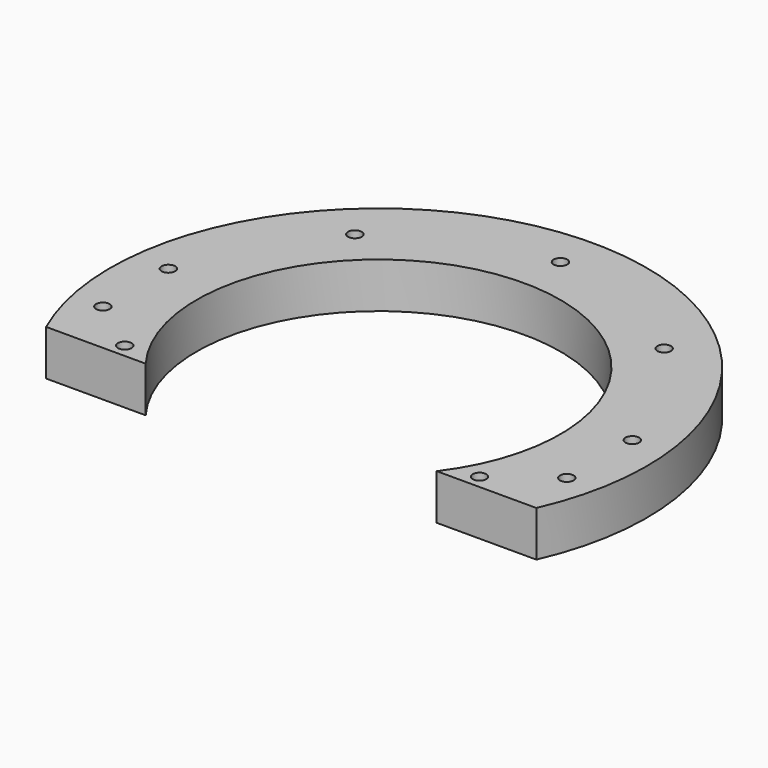
from build123d import *

# Parameters (mm, degrees)
CYLINDER531_R     = 1.5
CYLINDER531_DEPTH = 100
CYLINDER530_R     = 1.5
CYLINDER530_DEPTH = 100
CYLINDER364_R     = 1.5
CYLINDER364_DEPTH = 50
CYLINDER363_R     = 3
CYLINDER363_DEPTH = 4
BOX135_W          = 200
BOX135_H          = 100
BOX135_DEPTH      = 32
CYLINDER328_R     = 1.5
CYLINDER328_DEPTH = 50
CYLINDER330_R     = 1.5
CYLINDER330_DEPTH = 50
CYLINDER331_R     = 1.5
CYLINDER331_DEPTH = 50
CYLINDER329_R     = 1.5
CYLINDER329_DEPTH = 50
CYLINDER334_R     = 3
CYLINDER334_DEPTH = 4
CYLINDER327_R     = 3
CYLINDER327_DEPTH = 4
CYLINDER292_R     = 1.5
CYLINDER292_DEPTH = 100
CYLINDER291_R     = 1.5
CYLINDER291_DEPTH = 100
CYLINDER316_R     = 3
CYLINDER316_DEPTH = 4
CYLINDER315_R     = 3
CYLINDER315_DEPTH = 4
CYLINDER313_R     = 1.5
CYLINDER313_DEPTH = 50
CYLINDER314_R     = 1.5
CYLINDER314_DEPTH = 50
CYLINDER311_R     = 3
CYLINDER311_DEPTH = 4
CYLINDER312_R     = 3
CYLINDER312_DEPTH = 4
TUBE_R            = 59
TUBE_R_2          = 40
TUBE_DEPTH        = 10


with BuildPart() as obj1:
    # Cylinder531 → Cylinder531 (new body)
    with BuildSketch(Plane(origin=(39, -21, 0), x_dir=(1, 0, 0), z_dir=(0, 0, 1))):
        Circle(CYLINDER531_R)
    extrude(amount=CYLINDER531_DEPTH)


with BuildPart() as compound308:
    # Cylinder530 → Cylinder530 (new body)
    with BuildSketch(Plane(origin=(-39, -21, 0), x_dir=(1, 0, 0), z_dir=(0, 0, 1))):
        Circle(CYLINDER530_R)
    extrude(amount=CYLINDER530_DEPTH)

    # Compound308: union obj1
    add(obj1.part)


with BuildPart() as obj2:
    # Cylinder364 → Cylinder364 (new body)
    with BuildSketch(Plane(origin=(0, 50, 0), x_dir=(1, 0, 0), z_dir=(0, 0, 1))):
        Circle(CYLINDER364_R)
    extrude(amount=CYLINDER364_DEPTH)


with BuildPart() as obj3:
    # Cylinder363 → Cylinder363 (new body)
    with BuildSketch(Plane(origin=(0, 50, -1), x_dir=(1, 0, 0), z_dir=(0, 0, 1))):
        Circle(CYLINDER363_R)
    extrude(amount=CYLINDER363_DEPTH)


with BuildPart() as krychle135:
    # Box135 → Box135 (new body)
    with BuildSketch(Plane(origin=(-100, -124, 0), x_dir=(1, 0, 0), z_dir=(0, 0, 1))):
        with Locations((100, 50)):
            Rectangle(BOX135_W, BOX135_H)
    extrude(amount=BOX135_DEPTH)


with BuildPart() as obj4:
    # Cylinder328 → Cylinder328 (new body)
    with BuildSketch(Plane(origin=(-51, 6, 0), x_dir=(1, 0, 0), z_dir=(0, 0, 1))):
        Circle(CYLINDER328_R)
    extrude(amount=CYLINDER328_DEPTH)


with BuildPart() as obj5:
    # Cylinder330 → Cylinder330 (new body)
    with BuildSketch(Plane(origin=(-24, 18, 0), x_dir=(1, 0, 0), z_dir=(0, 0, 1))):
        Circle(CYLINDER330_R)
    extrude(amount=CYLINDER330_DEPTH)


with BuildPart() as obj6:
    # Cylinder331 → Cylinder331 (new body)
    with BuildSketch(Plane(origin=(24, 18, 0), x_dir=(1, 0, 0), z_dir=(0, 0, 1))):
        Circle(CYLINDER331_R)
    extrude(amount=CYLINDER331_DEPTH)


with BuildPart() as compound297:
    # Cylinder329 → Cylinder329 (new body)
    with BuildSketch(Plane(origin=(51, 6, 0), x_dir=(1, 0, 0), z_dir=(0, 0, 1))):
        Circle(CYLINDER329_R)
    extrude(amount=CYLINDER329_DEPTH)

    # Compound297: union obj4, obj5, obj6
    add(obj4.part)
    add(obj5.part)
    add(obj6.part)


with BuildPart() as obj7:
    # Cylinder334 → Cylinder334 (new body)
    with BuildSketch(Plane(origin=(24, 18, 0), x_dir=(1, 0, 0), z_dir=(0, 0, 1))):
        Circle(CYLINDER334_R)
    extrude(amount=CYLINDER334_DEPTH)


with BuildPart() as compound298:
    # Cylinder327 → Cylinder327 (new body)
    with BuildSketch(Plane(origin=(-24, 18, 0), x_dir=(1, 0, 0), z_dir=(0, 0, 1))):
        Circle(CYLINDER327_R)
    extrude(amount=CYLINDER327_DEPTH)

    # Compound298: union obj7
    add(obj7.part)


with BuildPart() as compound298_1:
    # Compound298 placement: moved
    add(compound298.part.moved(Location((0, 0, 7))))


with BuildPart() as obj8:
    # Cylinder292 → Cylinder292 (new body)
    with BuildSketch(Plane(origin=(51, -12, 0), x_dir=(1, 0, 0), z_dir=(0, 0, 1))):
        Circle(CYLINDER292_R)
    extrude(amount=CYLINDER292_DEPTH)


with BuildPart() as compound292:
    # Cylinder291 → Cylinder291 (new body)
    with BuildSketch(Plane(origin=(-51, -12, 0), x_dir=(1, 0, 0), z_dir=(0, 0, 1))):
        Circle(CYLINDER291_R)
    extrude(amount=CYLINDER291_DEPTH)

    # Compound292: union obj8
    add(obj8.part)


with BuildPart() as obj9:
    # Cylinder316 → Cylinder316 (new body)
    with BuildSketch(Plane(origin=(51, -16, 0), x_dir=(1, 0, 0), z_dir=(0, 0, 1))):
        Circle(CYLINDER316_R)
    extrude(amount=CYLINDER316_DEPTH)


with BuildPart() as compound293:
    # Cylinder315 → Cylinder315 (new body)
    with BuildSketch(Plane(origin=(-51, -16, 0), x_dir=(1, 0, 0), z_dir=(0, 0, 1))):
        Circle(CYLINDER315_R)
    extrude(amount=CYLINDER315_DEPTH)

    # Compound293: union obj9
    add(obj9.part)


with BuildPart() as compound293_1:
    # Compound293 placement: moved
    add(compound293.part.moved(Location((0, 0, 25))))


with BuildPart() as obj10:
    # Cylinder313 → Cylinder313 (new body)
    with BuildSketch(Plane(origin=(34, 36, 0), x_dir=(1, 0, 0), z_dir=(0, 0, 1))):
        Circle(CYLINDER313_R)
    extrude(amount=CYLINDER313_DEPTH)


with BuildPart() as compound291:
    # Cylinder314 → Cylinder314 (new body)
    with BuildSketch(Plane(origin=(-34, 36, 0), x_dir=(1, 0, 0), z_dir=(0, 0, 1))):
        Circle(CYLINDER314_R)
    extrude(amount=CYLINDER314_DEPTH)

    # Compound291: union obj10
    add(obj10.part)


with BuildPart() as obj11:
    # Cylinder311 → Cylinder311 (new body)
    with BuildSketch(Plane(origin=(-34, 36, -1), x_dir=(1, 0, 0), z_dir=(0, 0, 1))):
        Circle(CYLINDER311_R)
    extrude(amount=CYLINDER311_DEPTH)


with BuildPart() as compound290:
    # Cylinder312 → Cylinder312 (new body)
    with BuildSketch(Plane(origin=(34, 36, -1), x_dir=(1, 0, 0), z_dir=(0, 0, 1))):
        Circle(CYLINDER312_R)
    extrude(amount=CYLINDER312_DEPTH)

    # Compound290: union obj11
    add(obj11.part)


with BuildPart() as cut169:
    # Tube → Tube (new body)
    with BuildSketch(Plane.XY):
        Circle(TUBE_R)
        Circle(TUBE_R_2, mode=Mode.SUBTRACT)
    extrude(amount=TUBE_DEPTH)

    # Cut136: cut Compound290
    add(compound290.part, mode=Mode.SUBTRACT)

    # Cut137: cut Compound291
    add(compound291.part, mode=Mode.SUBTRACT)

    # Cut138: cut Compound293
    add(compound293_1.part, mode=Mode.SUBTRACT)

    # Cut139: cut Compound292
    add(compound292.part, mode=Mode.SUBTRACT)

    # Cut142: cut Compound298
    add(compound298_1.part, mode=Mode.SUBTRACT)

    # Cut143: cut Compound297
    add(compound297.part, mode=Mode.SUBTRACT)

    # Cut144: cut Krychle135
    add(krychle135.part, mode=Mode.SUBTRACT)

    # Cut153: cut obj3
    add(obj3.part, mode=Mode.SUBTRACT)

    # Cut154: cut obj2
    add(obj2.part, mode=Mode.SUBTRACT)

    # Cut169: cut Compound308
    add(compound308.part, mode=Mode.SUBTRACT)


solid = cut169.part
